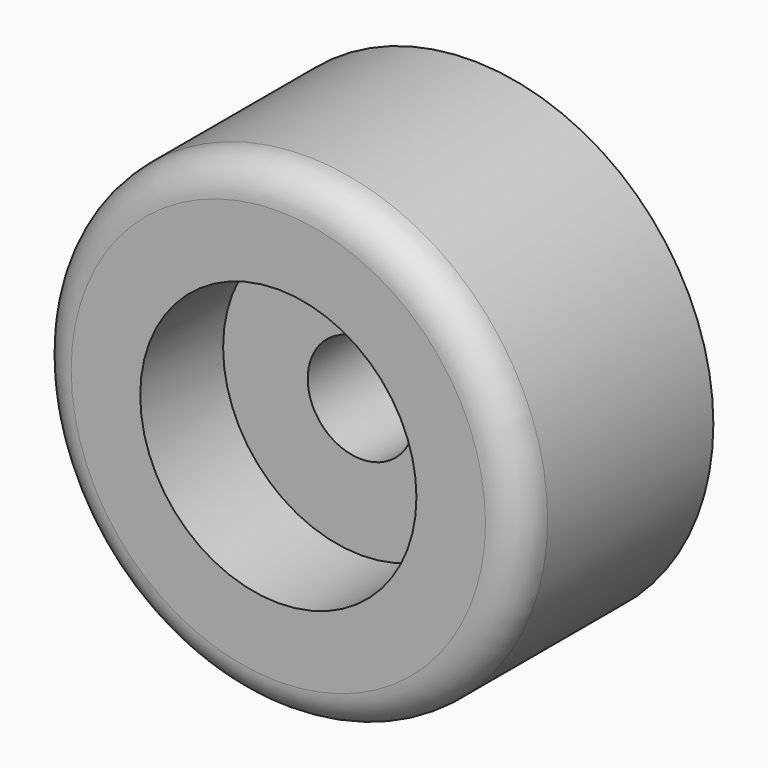
from build123d import *

# Parameters (mm, degrees)
F0_R     = 7
F0_R_2   = 1.55
F1_DEPTH = 7
F2_R     = 1
F3_R     = 4
F4_DEPTH = 3


with BuildPart() as f1:
    # F0 (on Front) → F1 (new body)
    with BuildSketch(Plane.XZ):
        with Locations((-31.374283, 43.221928)):
            Circle(F0_R)
        with Locations((-31.374283, 43.221928)):
            Circle(F0_R_2, mode=Mode.SUBTRACT)
    extrude(amount=F1_DEPTH)

    # F2
    f2_edges = [f1.edges().sort_by_distance(p)[0] for p in [
        (-38.374283, -7, 43.221928),
    ]]
    fillet(f2_edges, radius=F2_R)

    # F3 (on face) → F4 (cut)
    with BuildSketch(Plane.XZ.offset(7)):
        with Locations((-31.374283, 43.221928)):
            Circle(F3_R)
    extrude(amount=-F4_DEPTH, mode=Mode.SUBTRACT)


solid = f1.part
